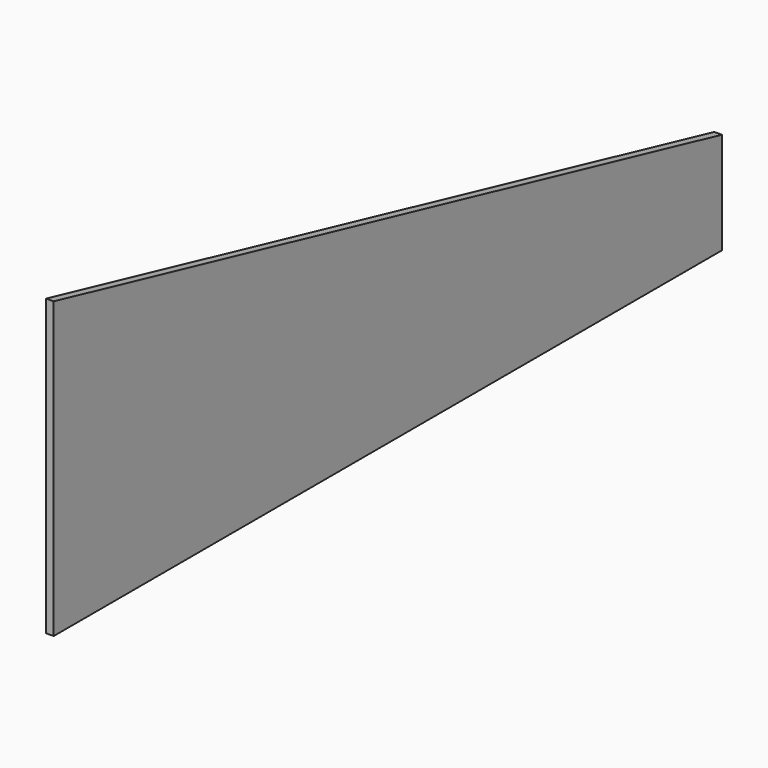
from build123d import *

# Parameters (mm, degrees)
F1_DEPTH = 6.35
F3_DEPTH = 12.701


with BuildPart() as f1:
    # F0 (on Right) → F1 (new body, symmetric)
    with BuildSketch(Plane.YZ):
        Polygon((0, 544.75634), (0, 0), (2359.598944, 0), align=None)
    extrude(amount=F1_DEPTH, both=True)

    # F2 (on face) → F3 (cut, through all)
    with BuildSketch(Plane.YZ.offset(6.35)):
        Polygon((0, 0), (225.044, 0), (225.044, 492.800839), (0, 544.75634), align=None)
        Polygon((1622.044, 170.277976), (1622.044, 0), (2359.598944, 0), align=None)
    extrude(amount=-F3_DEPTH, mode=Mode.SUBTRACT)


solid = f1.part
